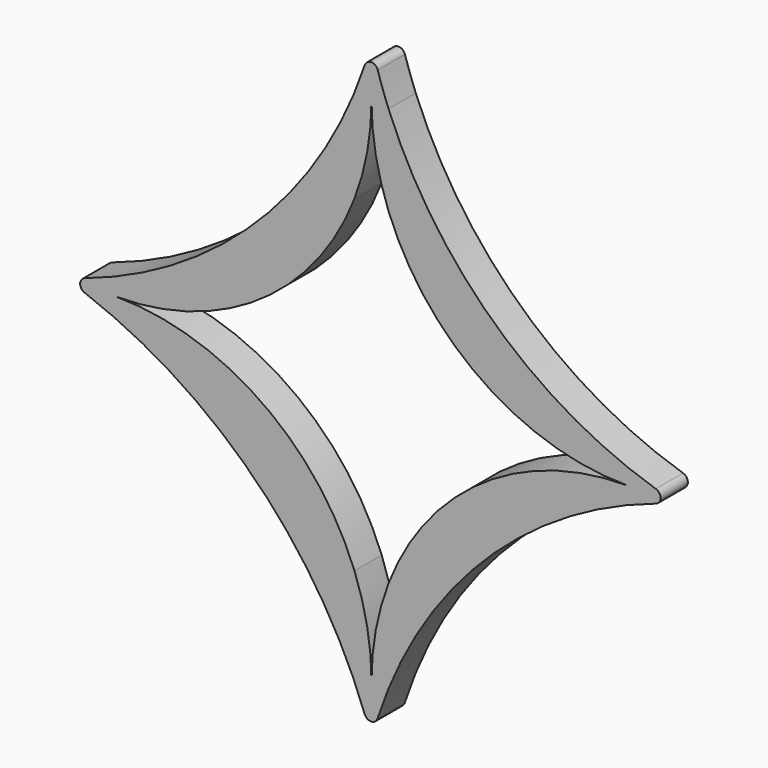
from build123d import *

# Parameters (mm, degrees)
F1_DEPTH = 2.54
F2_R     = 0.508


with BuildPart() as f1:
    # F0 (on Front) → F1 (new body)
    with BuildSketch(Plane.XZ):
        with BuildLine():
            ThreePointArc((22.872963, 1.371057), (9.798592, 8.238838), (1.282963, 20.304891))
            ThreePointArc((1.282963, 20.304891), (0.583696, 22.247186), (0.012963, 24.231057))
            ThreePointArc((0.012963, 24.231057), (-8.419151, 9.803172), (-22.847037, 1.371057))
            ThreePointArc((-22.847037, 1.371057), (-8.637784, -7.27969), (0.012963, -21.488943))
            ThreePointArc((0.012963, -21.488943), (8.403265, -7.019245), (22.872963, 1.371057))
        make_face()
        with BuildLine():
            ThreePointArc((1.282963, -10.839783), (0.333154, -14.200904), (0.012963, -17.678943))
            ThreePointArc((0.012963, -17.678943), (-0.307228, -14.200904), (-1.257037, -10.839783))
            ThreePointArc((-1.257037, -10.839783), (-8.252406, -1.975623), (-19.037037, 1.371057))
            ThreePointArc((-19.037037, 1.371057), (-8.252406, 4.717738), (-1.257037, 13.581898))
            ThreePointArc((-1.257037, 13.581898), (-0.307228, 16.943019), (0.012963, 20.421057))
            ThreePointArc((0.012963, 20.421057), (0.333154, 16.943019), (1.282963, 13.581898))
            ThreePointArc((1.282963, 13.581898), (8.278332, 4.717738), (19.062963, 1.371057))
            ThreePointArc((19.062963, 1.371057), (8.278332, -1.975623), (1.282963, -10.839783))
        make_face(mode=Mode.SUBTRACT)
    extrude(amount=F1_DEPTH)

    # F2
    f2_edges = [f1.edges().sort_by_distance(p)[0] for p in [
        (0.012963, -1.27, 24.231057),
        (22.872963, -1.27, 1.371057),
        (0.012963, -1.27, -21.488943),
        (-22.847037, -1.27, 1.371057),
    ]]
    fillet(f2_edges, radius=F2_R)


solid = f1.part
